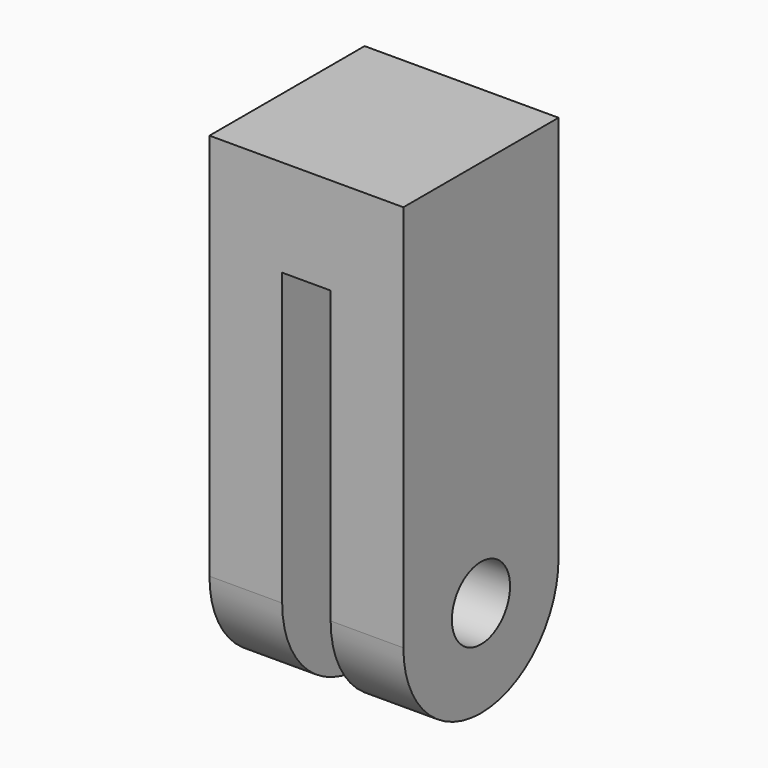
from build123d import *

# Parameters (mm, degrees)
SKETCH007_W      = 10
SKETCH007_H      = 85.035517
EXTRUDE007_DEPTH = 50
SKETCH006_R      = 7.5
EXTRUDE006_DEPTH = 20


with BuildPart() as extrude007:
    # Sketch007 → Extrude007 (new body)
    with BuildSketch(Plane.XZ.offset(20)):
        with Locations((0, 17.482242)):
            Rectangle(SKETCH007_W, SKETCH007_H)
    extrude(amount=-EXTRUDE007_DEPTH)


with BuildPart() as cut002:
    # Sketch006 → Extrude006 (new body, symmetric)
    with BuildSketch(Plane.YZ):
        with BuildLine():
            ThreePointArc((-20, 9e-06), (1.3e-05, -20), (20, 3.6e-05))
            Line((20, 80), (20, 3.6e-05))
            Line((-20, 80), (20, 80))
            Line((-20, 9e-06), (-20, 80))
        make_face()
        Circle(SKETCH006_R, mode=Mode.SUBTRACT)
    extrude(amount=EXTRUDE006_DEPTH, both=True)

    # Cut002: cut Extrude007
    add(extrude007.part, mode=Mode.SUBTRACT)


solid = cut002.part
